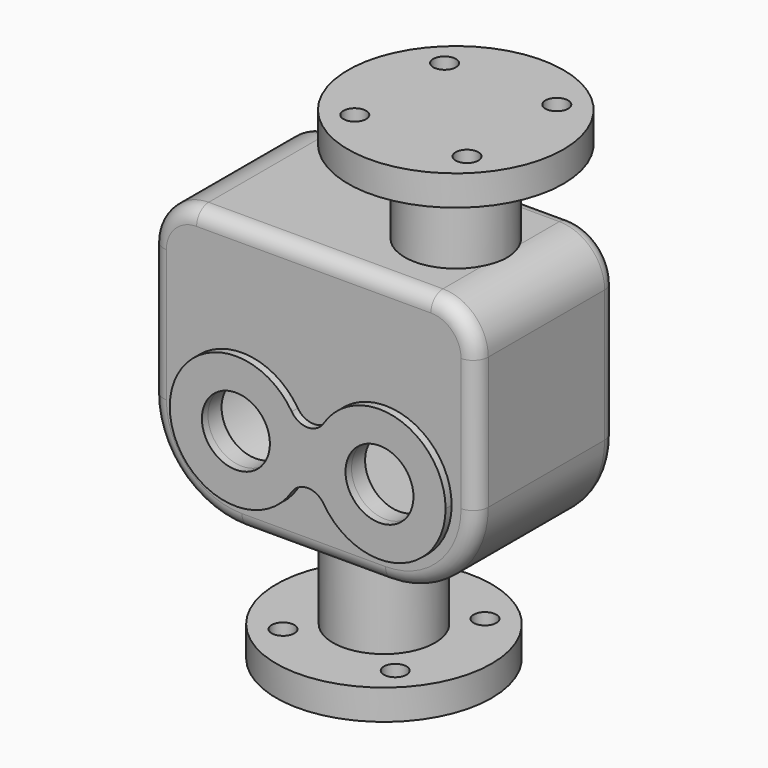
from build123d import *

# Parameters (mm, degrees)
F0_R          = 57
F0_R_2        = 6
F1_DEPTH      = 16
F2_R          = 27
F3_DEPTH      = 50
F5_DEPTH      = 46.5
F6_R          = 8
F7_R          = 27
F8_DEPTH      = 44
F8_DEPTH_BACK = 25
F9_R          = 57
F9_R_2        = 27
F10_DEPTH     = 16
F11_R         = 6
F12_DEPTH     = 25
F14_DEPTH     = 37.5
F15_R         = 3
F16_R         = 3
F17_R         = 18
F18_DEPTH     = 4
F19_DEPTH     = 25
F20_R         = 27.5
F21_DEPTH     = 25


with BuildPart() as f1:
    # F0 (on Top) → F1 (new body)
    with BuildSketch(Plane.XY):
        Circle(F0_R)
        with Locations((-29.6984848098, -29.6984848098)):
            Circle(F0_R_2, mode=Mode.SUBTRACT)
        with Locations((29.6984848098, -29.6984848098)):
            Circle(F0_R_2, mode=Mode.SUBTRACT)
        with Locations((-29.6984848098, 29.6984848098)):
            Circle(F0_R_2, mode=Mode.SUBTRACT)
        with Locations((29.6984848098, 29.6984848098)):
            Circle(F0_R_2, mode=Mode.SUBTRACT)
    extrude(amount=F1_DEPTH)

    # F2 (on face) → F3 (join)
    with BuildSketch(Plane.XY.offset(16)):
        Circle(F2_R)
    extrude(amount=F3_DEPTH)

    # F4 (on Front) → F5 (join, symmetric)
    with BuildSketch(Plane.XZ):
        with BuildLine():
            Line((62, 208), (-62, 208))
            ThreePointArc((-62, 208), (-78.9705627485, 200.9705627485), (-86, 184))
            Line((-86, 184), (-86, 114))
            ThreePointArc((-86, 114), (-71.941125497, 80.058874503), (-38, 66))
            Line((-38, 66), (0, 66))
            Line((0, 66), (38, 66))
            ThreePointArc((38, 66), (71.941125497, 80.058874503), (86, 114))
            Line((86, 114), (86, 184))
            ThreePointArc((86, 184), (78.9705627485, 200.9705627485), (62, 208))
        make_face()
    extrude(amount=F5_DEPTH, both=True)

    # F6
    f6_edges = [f1.edges().sort_by_distance(p)[0] for p in [
        (0, -46.5, 208),
        (-78.970563, -46.5, 200.970563),
        (-86, -46.5, 149),
        (-71.941125, -46.5, 80.058875),
        (0, -46.5, 66),
        (71.941125, -46.5, 80.058875),
        (86, -46.5, 149),
        (78.970563, -46.5, 200.970563),
        (0, 46.5, 208),
        (-78.970563, 46.5, 200.970563),
        (-86, 46.5, 149),
        (-71.941125, 46.5, 80.058875),
        (0, 46.5, 66),
        (71.941125, 46.5, 80.058875),
        (86, 46.5, 149),
        (78.970563, 46.5, 200.970563),
    ]]
    fillet(f6_edges, radius=F6_R)

    # F7 (on face) → F8 (join, two sides)
    with BuildSketch(Plane.XY.offset(208)) as f8_sk:
        with Locations((38, 0)):
            Circle(F7_R)
    extrude(amount=F8_DEPTH)
    extrude(f8_sk.sketch, amount=-F8_DEPTH_BACK)

    # F9 (on face) → F10 (join)
    with BuildSketch(Plane.XY.offset(252)):
        with Locations((38, 0)):
            Circle(F9_R)
        with Locations((38, 0)):
            Circle(F9_R_2, mode=Mode.SUBTRACT)
        with Locations((38, 0)):
            Circle(F9_R_2)
    extrude(amount=F10_DEPTH)

    # F11 (on face) → F12 (cut)
    with BuildSketch(Plane.XY.offset(268)):
        with Locations((67.6984848098, 29.6984848098)):
            Circle(F11_R)
        with Locations((67.6984848098, -29.6984848098)):
            Circle(F11_R)
        with Locations((8.3015151902, 29.6984848098)):
            Circle(F11_R)
        with Locations((8.3015151902, -29.6984848098)):
            Circle(F11_R)
    extrude(amount=-F12_DEPTH, mode=Mode.SUBTRACT)

    # F13 (on Front) → F14 (cut, symmetric)
    with BuildSketch(Plane.XZ):
        with BuildLine():
            ThreePointArc((-77, 114), (-65.5771644663, 86.4228355337), (-38, 75))
            Line((-38, 75), (38, 75))
            ThreePointArc((38, 75), (65.5771644663, 86.4228355337), (77, 114))
            Line((77, 114), (77, 184))
            ThreePointArc((77, 184), (72.6066017178, 194.6066017178), (62, 199))
            Line((62, 199), (-62, 199))
            ThreePointArc((-62, 199), (-72.6066017178, 194.6066017178), (-77, 184))
            Line((-77, 184), (-77, 114))
        make_face()
    extrude(amount=F14_DEPTH, both=True, mode=Mode.SUBTRACT)

    # F15
    f15_edges = [f1.edges().sort_by_distance(p)[0] for p in [
        (77, 37.5, 149),
    ]]
    fillet(f15_edges, radius=F15_R)

    # F16
    f16_edges = [f1.edges().sort_by_distance(p)[0] for p in [
        (77, -37.5, 149),
    ]]
    fillet(f16_edges, radius=F16_R)

    # F17 (on face) → F18 (join)
    with BuildSketch(Plane.XZ.offset(46.5)):
        with BuildLine():
            ThreePointArc((8.4444444444, 95.2524898773), (47.7610336429, 80.3886593213), (73, 114))
            ThreePointArc((73, 114), (47.7610336429, 147.6113406787), (8.4444444444, 132.7475101227))
            ThreePointArc((8.4444444444, 132.7475101227), (3, 114), (8.4444444444, 95.2524898773))
        make_face()
        with Locations((38, 114)):
            Circle(F17_R, mode=Mode.SUBTRACT)
        with BuildLine():
            ThreePointArc((8.4444444444, 95.2524898773), (3, 114), (8.4444444444, 132.7475101227))
            ThreePointArc((8.4444444444, 132.7475101227), (0, 128.1039415864), (-8.4444444444, 132.7475101227))
            ThreePointArc((-8.4444444444, 132.7475101227), (-4.3886593213, 123.7610336429), (-3, 114))
            ThreePointArc((-3, 114), (-4.3886593213, 104.2389663571), (-8.4444444444, 95.2524898773))
            ThreePointArc((-8.4444444444, 95.2524898773), (0, 99.8960584136), (8.4444444444, 95.2524898773))
        make_face()
        with BuildLine():
            ThreePointArc((-3, 114), (-4.3886593213, 123.7610336429), (-8.4444444444, 132.7475101227))
            ThreePointArc((-8.4444444444, 132.7475101227), (-73, 114), (-8.4444444444, 95.2524898773))
            ThreePointArc((-8.4444444444, 95.2524898773), (-4.3886593213, 104.2389663571), (-3, 114))
        make_face()
        with Locations((-38, 114)):
            Circle(F17_R, mode=Mode.SUBTRACT)
    extrude(amount=F18_DEPTH)

    # F19 (cut): faces of the model
    f19_faces = [f1.faces().sort_by_distance(p)[0] for p in [
        (-38, -46.5, 114),
        (38, -46.5, 114),
    ]]
    extrude(f19_faces, amount=-F19_DEPTH, mode=Mode.SUBTRACT)

    # F20 (on face) → F21 (cut)
    with BuildSketch(Plane(origin=(0, 46.5, 0), x_dir=(-1, 0, 0), z_dir=(0, 1, 0))):
        with Locations((-38, 114)):
            Circle(F20_R)
        with Locations((38, 114)):
            Circle(F20_R)
    extrude(amount=-F21_DEPTH, mode=Mode.SUBTRACT)


solid = f1.part
